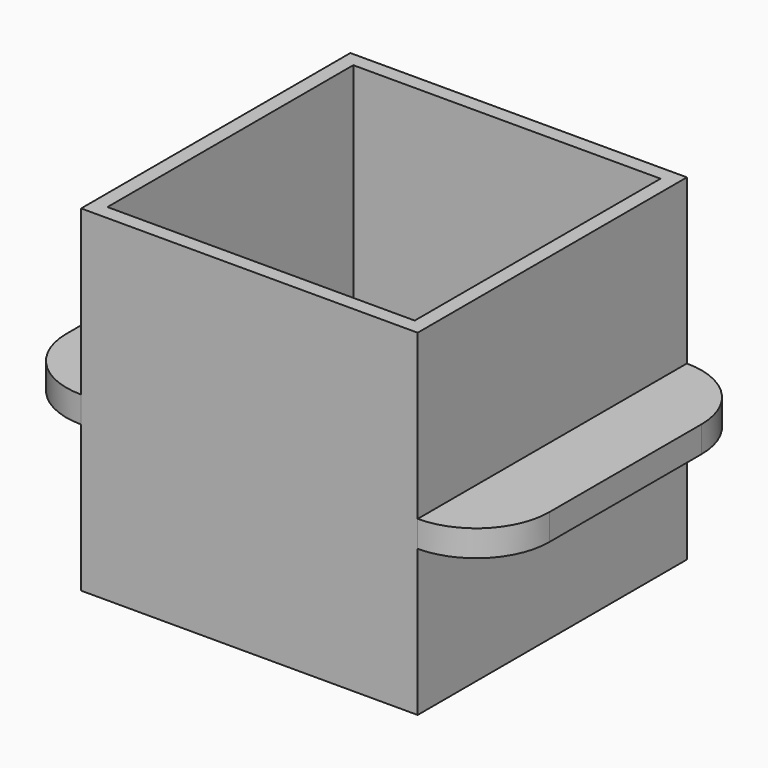
from build123d import *

# Parameters (mm, degrees)
SKETCH_W        = 23
SKETCH_H        = 23
PAD_DEPTH       = 23
SKETCH001_W     = 21
SKETCH001_H     = 21
POCKET_DEPTH    = 18.6
SKETCH002_R     = 1.7
POCKET001_DEPTH = 5
SKETCH003_W     = 23
SKETCH003_H     = 1.8
PAD001_DEPTH    = 5
SKETCH004_W     = 23
SKETCH004_H     = 1.8
PAD002_DEPTH    = 5
FILLET_R        = 5


with BuildPart() as part:
    # Sketch → Pad (new body)
    with BuildSketch(Plane.XY):
        Rectangle(SKETCH_W, SKETCH_H)
    extrude(amount=PAD_DEPTH)

    # Sketch001 (on Face6 of Pad) → Pocket (cut)
    with BuildSketch(Plane.XY.offset(23)):
        Rectangle(SKETCH001_W, SKETCH001_H)
    extrude(amount=-POCKET_DEPTH, mode=Mode.SUBTRACT)

    # Sketch002 (on Face4 of Pocket) → Pocket001 (cut)
    with BuildSketch(Plane(origin=(0, 0, 0), x_dir=(1, 0, 0), z_dir=(0, 0, -1))):
        Circle(SKETCH002_R)
        with Locations((7.62, 0)):
            Circle(SKETCH002_R)
        with Locations((-7.62, 0)):
            Circle(SKETCH002_R)
    extrude(amount=-POCKET001_DEPTH, mode=Mode.SUBTRACT)

    # Sketch003 (on Face1 of Pocket001) → Pad001 (join)
    with BuildSketch(Plane(origin=(-11.5, 0, 0), x_dir=(0, -1, 0), z_dir=(-1, 0, 0))):
        with Locations((0, 10.9)):
            Rectangle(SKETCH003_W, SKETCH003_H)
    extrude(amount=PAD001_DEPTH)

    # Sketch004 (on Face6 of Pad001) → Pad002 (join)
    with BuildSketch(Plane.YZ.offset(11.5)):
        with Locations((0, 10.9)):
            Rectangle(SKETCH004_W, SKETCH004_H)
    extrude(amount=PAD002_DEPTH)

    # Fillet
    fillet_edges = [part.edges().sort_by_distance(p)[0] for p in [
        (16.5, -11.5, 10.9),
        (16.5, 11.5, 10.9),
        (-16.5, -11.5, 10.9),
        (-16.5, 11.5, 10.9),
    ]]
    fillet(fillet_edges, radius=FILLET_R)


solid = part.part
